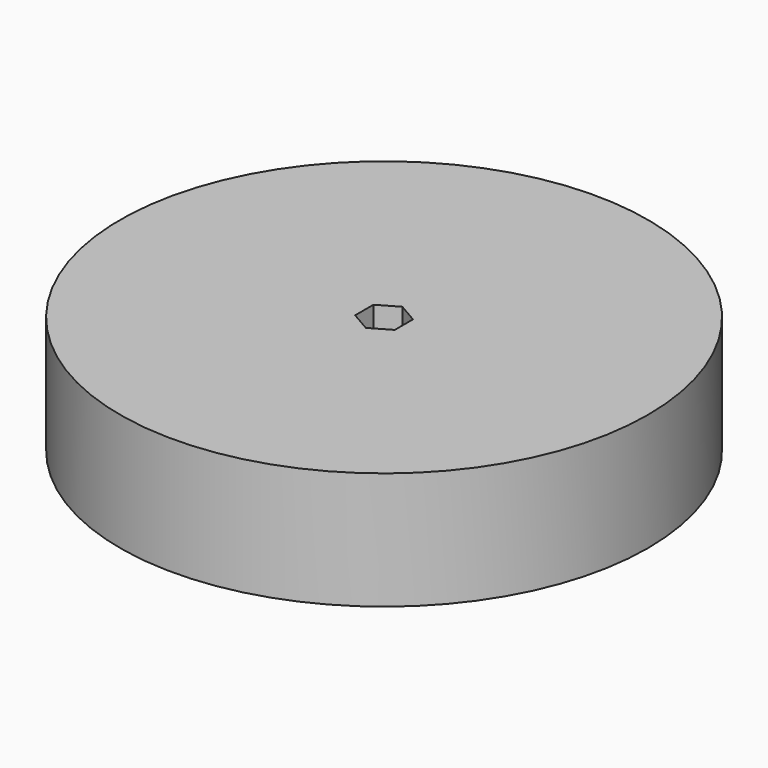
from build123d import *

# Parameters (mm, degrees)
F0_R     = 20
F1_DEPTH = 8.89
F2_DEPTH = 8.89


with BuildPart() as f1:
    # F0 (on Top) → F1 (new body)
    with BuildSketch(Plane.XY):
        with Locations((-29.035902, 28.764101)):
            Circle(F0_R)
        Polygon((-29.035902, 30.496152), (-27.535902, 29.630126), (-27.535902, 27.898075), (-29.035902, 27.03205), (-30.535902, 27.898075), (-30.535902, 29.630126), align=None, mode=Mode.SUBTRACT)
    extrude(amount=F1_DEPTH)

    # F0 (on Top) → F2 (cut)
    with BuildSketch(Plane.XY):
        Polygon((-27.535902, 27.898075), (-27.535902, 29.630126), (-29.035902, 30.496152), (-30.535902, 29.630126), (-30.535902, 27.898075), (-29.035902, 27.03205), align=None)
    extrude(amount=F2_DEPTH, mode=Mode.SUBTRACT)


solid = f1.part
